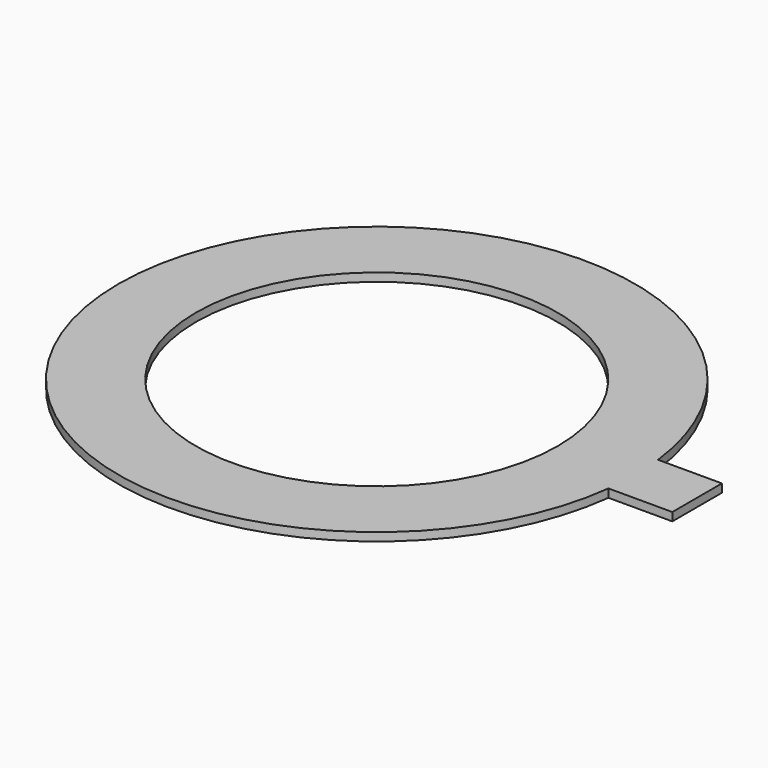
from build123d import *

# Parameters (mm, degrees)
F0_R     = 35
F1_DEPTH = 1.6


with BuildPart() as f1:
    # F0 (on Top) → F1 (new body)
    with BuildSketch(Plane.XY):
        with BuildLine():
            ThreePointArc((49.638695, -6), (49.909592, -3.005434), (50, 0))
            ThreePointArc((50, 0), (49.909592, 3.005434), (49.638695, 6))
            Line((49.638695, 6), (38, 6))
            Line((38, 6), (38, -6))
            Line((38, -6), (49.638695, -6))
        make_face()
        with BuildLine():
            Line((38, 6), (49.638695, 6))
            ThreePointArc((49.638695, 6), (-50, 0), (49.638695, -6))
            Line((49.638695, -6), (38, -6))
            Line((38, -6), (38, 6))
        make_face()
        Circle(F0_R, mode=Mode.SUBTRACT)
        with BuildLine():
            ThreePointArc((49.638695, 6), (49.909592, 3.005434), (50, 0))
            ThreePointArc((50, 0), (49.909592, -3.005434), (49.638695, -6))
            Line((49.638695, -6), (62, -6))
            Line((62, -6), (62, 6))
            Line((62, 6), (49.638695, 6))
        make_face()
    extrude(amount=F1_DEPTH)


solid = f1.part
